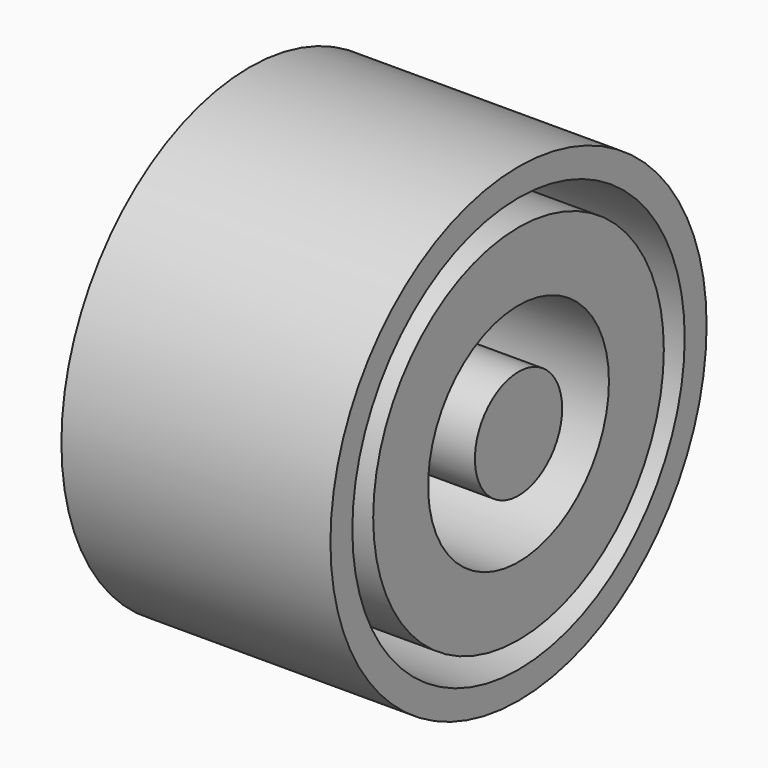
from build123d import *

# Parameters (mm, degrees)
F0_R     = 22.195541368
F0_R_2   = 19.6115494273
F1_DEPTH = 25.4
F0_R_3   = 5.1474184814
F0_R_4   = 17.1494750352
F0_R_5   = 14.3453954548
F0_R_6   = 10.6706063554


with BuildPart() as f1:
    # F0 (on Right) → F1 (new body)
    with BuildSketch(Plane.YZ):
        with Locations((8.8989520445, -38.7072153389)):
            Circle(F0_R)
        with Locations((8.8989520445, -38.7072153389)):
            Circle(F0_R_2, mode=Mode.SUBTRACT)
    extrude(amount=F1_DEPTH)


with BuildPart() as f1b:
    # F0 (on Right) → F1, piece 2 (new body)
    with BuildSketch(Plane.YZ):
        with Locations((8.8989520445, -38.7072153389)):
            Circle(F0_R_3)
    extrude(amount=F1_DEPTH)


with BuildPart() as f1c:
    # F0 (on Right) → F1, piece 3 (new body)
    with BuildSketch(Plane.YZ):
        with Locations((8.8989520445, -38.7072153389)):
            Circle(F0_R_4)
        with Locations((8.8989520445, -38.7072153389)):
            Circle(F0_R_5, mode=Mode.SUBTRACT)
        with Locations((8.8989520445, -38.7072153389)):
            Circle(F0_R_5)
        with Locations((8.8989520445, -38.7072153389)):
            Circle(F0_R_6, mode=Mode.SUBTRACT)
    extrude(amount=F1_DEPTH)


solid = Compound([f1.part, f1b.part, f1c.part])
